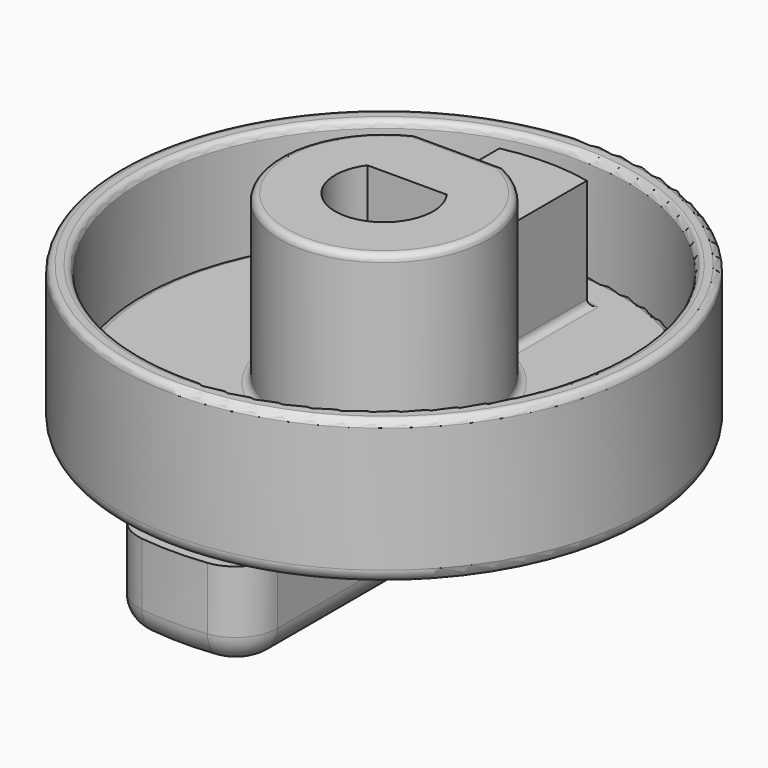
from build123d import *

# Parameters (mm, degrees)
F1_DEPTH = 15
F2_DEPTH = 11
F0_R     = 17.5
F3_DEPTH = 3
F4_DEPTH = 4
F0_R_2   = 19
F5_DEPTH = 10.5
F7_DEPTH = 6.5
F8_R     = 0.5
F8_2_R   = 0.5
F9_R     = 0.5
F10_R    = 1
F11_R    = 3
F12_R    = 2


with BuildPart() as f1:
    # F0 (on Top) → F1 (new body)
    with BuildSketch(Plane.XY):
        with BuildLine():
            Line((3.1462464365, 6.8081666667), (-3.1462464365, 6.8081666667))
            ThreePointArc((-3.1462464365, 6.8081666667), (0, -7.5), (3.1462464365, 6.8081666667))
        make_face()
        with BuildLine():
            ThreePointArc((2.860349629, 2.0695), (0, -3.5305), (-2.860349629, 2.0695))
            Line((-2.860349629, 2.0695), (2.860349629, 2.0695))
        make_face(mode=Mode.SUBTRACT)
    extrude(amount=F1_DEPTH)

    # F0 (on Top) → F2 (join)
    with BuildSketch(Plane.XY):
        with BuildLine():
            Line((-3.1462464365, 14.3081666667), (-3.1462464365, 6.8081666667))
            Line((-3.1462464365, 6.8081666667), (3.1462464365, 6.8081666667))
            Line((3.1462464365, 6.8081666667), (3.1462464365, 14.3081666667))
            ThreePointArc((3.1462464365, 14.3081666667), (0, 14.65), (-3.1462464365, 14.3081666667))
        make_face()
    extrude(amount=F2_DEPTH)

    # F0 (on Top) → F3 (join)
    with BuildSketch(Plane.XY):
        Circle(F0_R)
        with BuildLine():
            ThreePointArc((3.1462464365, 6.8081666667), (0, -7.5), (-3.1462464365, 6.8081666667))
            Line((-3.1462464365, 6.8081666667), (-3.1462464365, 14.3081666667))
            ThreePointArc((-3.1462464365, 14.3081666667), (0, 14.65), (3.1462464365, 14.3081666667))
            Line((3.1462464365, 14.3081666667), (3.1462464365, 6.8081666667))
        make_face(mode=Mode.SUBTRACT)
        with BuildLine():
            Line((3.1462464365, 6.8081666667), (-3.1462464365, 6.8081666667))
            ThreePointArc((-3.1462464365, 6.8081666667), (0, -7.5), (3.1462464365, 6.8081666667))
        make_face()
        with BuildLine():
            ThreePointArc((2.860349629, 2.0695), (0, -3.5305), (-2.860349629, 2.0695))
            Line((-2.860349629, 2.0695), (2.860349629, 2.0695))
        make_face(mode=Mode.SUBTRACT)
        with BuildLine():
            Line((-3.1462464365, 14.3081666667), (-3.1462464365, 6.8081666667))
            Line((-3.1462464365, 6.8081666667), (3.1462464365, 6.8081666667))
            Line((3.1462464365, 6.8081666667), (3.1462464365, 14.3081666667))
            ThreePointArc((3.1462464365, 14.3081666667), (0, 14.65), (-3.1462464365, 14.3081666667))
        make_face()
        with BuildLine():
            Line((2.860349629, 2.0695), (-2.860349629, 2.0695))
            ThreePointArc((-2.860349629, 2.0695), (0, -3.5305), (2.860349629, 2.0695))
        make_face()
    extrude(amount=F3_DEPTH)

    # F0 (on Top) → F4 (join)
    with BuildSketch(Plane.XY):
        with BuildLine():
            Line((2.860349629, 2.0695), (-2.860349629, 2.0695))
            ThreePointArc((-2.860349629, 2.0695), (0, -3.5305), (2.860349629, 2.0695))
        make_face()
    extrude(amount=F4_DEPTH)

    # F8
    f8_edges = [f1.edges().sort_by_distance(p)[0] for p in [
        (0, -7.5, 15),
        (0, 6.808167, 15),
        (0, -7.5, 3),
        (3.146246, 10.558167, 3),
        (-3.146246, 10.558167, 3),
        (0, 14.65, 3),
        (0, 6.808167, 11),
    ]]
    fillet(f8_edges, radius=F8_R)

    # F9
    f9_edges = [f1.edges().sort_by_distance(p)[0] for p in [
        (-17.5, 0, 3),
    ]]
    fillet(f9_edges, radius=F9_R)


with BuildPart() as f5:
    # F0 (on Top) → F5 (new body)
    with BuildSketch(Plane.XY):
        Circle(F0_R_2)
        Circle(F0_R, mode=Mode.SUBTRACT)
    extrude(amount=F5_DEPTH)

    # F8#2
    f8_2_edges = [f5.edges().sort_by_distance(p)[0] for p in [
        (-17.5, 0, 10.5),
        (-19, 0, 10.5),
    ]]
    fillet(f8_2_edges, radius=F8_2_R)

    # F10
    f10_edges = [f5.edges().sort_by_distance(p)[0] for p in [
        (-19, 0, 0),
    ]]
    fillet(f10_edges, radius=F10_R)


with BuildPart() as f7:
    # F6 (on face) → F7 (new body)
    with BuildSketch(Plane.XY):
        with BuildLine():
            ThreePointArc((-5, -16.7705098312), (0, -17.5), (5, -16.7705098312))
            Line((5, -16.7705098312), (5, -5.5901699437))
            ThreePointArc((5, -5.5901699437), (0, -7.5), (-5, -5.5901699437))
            Line((-5, -5.5901699437), (-5, -16.7705098312))
        make_face()
        with BuildLine():
            ThreePointArc((3.1462464365, 6.8081666667), (4.1183991738, 6.2680769176), (5, 5.5901699437))
            Line((5, 5.5901699437), (5, 16.7705098312))
            ThreePointArc((5, 16.7705098312), (0, 17.5), (-5, 16.7705098312))
            Line((-5, 16.7705098312), (-5, 5.5901699437))
            ThreePointArc((-5, 5.5901699437), (-4.1183991738, 6.2680769176), (-3.1462464365, 6.8081666667))
            Line((-3.1462464365, 6.8081666667), (-3.1462464365, 14.3081666667))
            ThreePointArc((-3.1462464365, 14.3081666667), (0, 14.65), (3.1462464365, 14.3081666667))
            Line((3.1462464365, 14.3081666667), (3.1462464365, 6.8081666667))
        make_face()
        with BuildLine():
            ThreePointArc((-5, -5.5901699437), (0, -7.5), (5, -5.5901699437))
            Line((5, -5.5901699437), (5, 5.5901699437))
            ThreePointArc((5, 5.5901699437), (4.1183991738, 6.2680769176), (3.1462464365, 6.8081666667))
            Line((3.1462464365, 6.8081666667), (3.1462464365, 14.3081666667))
            ThreePointArc((3.1462464365, 14.3081666667), (0, 14.65), (-3.1462464365, 14.3081666667))
            Line((-3.1462464365, 14.3081666667), (-3.1462464365, 6.8081666667))
            ThreePointArc((-3.1462464365, 6.8081666667), (-4.1183991738, 6.2680769176), (-5, 5.5901699437))
            Line((-5, 5.5901699437), (-5, -5.5901699437))
        make_face()
        with BuildLine():
            Line((-5, 18.3303027798), (-5, 16.7705098312))
            ThreePointArc((-5, 16.7705098312), (0, 17.5), (5, 16.7705098312))
            Line((5, 16.7705098312), (5, 18.3303027798))
            ThreePointArc((5, 18.3303027798), (0, 19.0133859678), (-5, 18.3303027798))
        make_face()
        with BuildLine():
            ThreePointArc((-5, -18.3303027798), (0, -18.9786431641), (5, -18.3303027798))
            Line((5, -18.3303027798), (5, -16.7705098312))
            ThreePointArc((5, -16.7705098312), (0, -17.5), (-5, -16.7705098312))
            Line((-5, -16.7705098312), (-5, -18.3303027798))
        make_face()
    extrude(amount=-F7_DEPTH)

    # F11
    f11_edges = [f7.edges().sort_by_distance(p)[0] for p in [
        (-5, -18.330303, -3.25),
        (-5, 18.330303, -3.25),
        (5, 18.330303, -3.25),
        (5, -18.330303, -3.25),
    ]]
    fillet(f11_edges, radius=F11_R)

    # F12
    f12_edges = [f7.edges().sort_by_distance(p)[0] for p in [
        (0, 19.013386, -6.5),
        (4.252868, 17.866046, -6.5),
        (-4.252868, 17.866046, -6.5),
        (5, 0.013619, -6.5),
        (-5, 0.013619, -6.5),
        (4.245447, -17.847215, -6.5),
        (-4.245447, -17.847215, -6.5),
        (0, -18.978643, -6.5),
    ]]
    fillet(f12_edges, radius=F12_R)


solid = Compound([f1.part, f5.part, f7.part])
